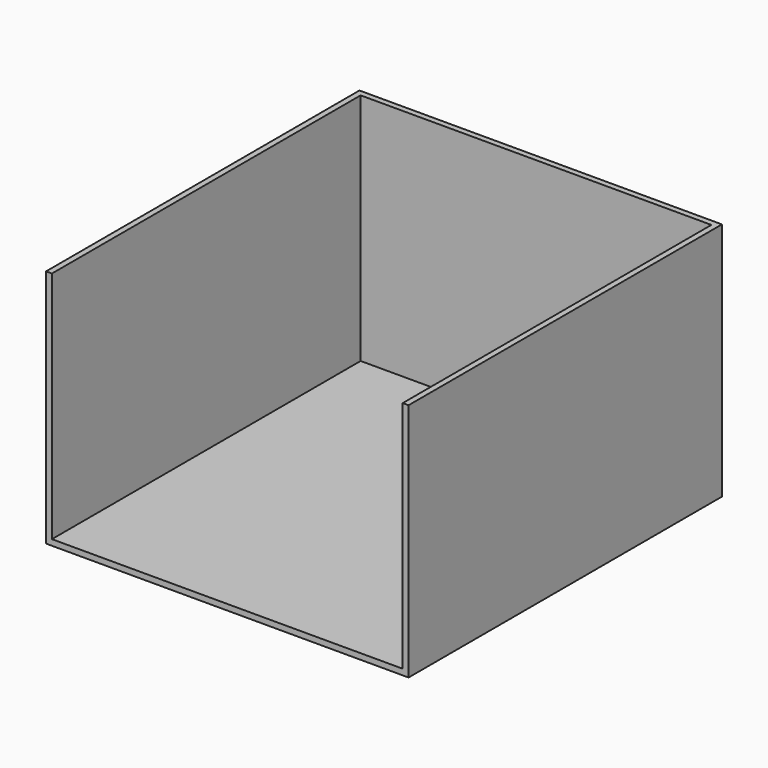
from build123d import *

# Parameters (mm, degrees)
F0_W     = 3048
F0_H     = 3352.8
F1_DEPTH = 50.8
F2_W     = 50.8
F2_H     = 3352.8
F3_DEPTH = 2082.8


with BuildPart() as f1:
    # F0 (on Top) → F1 (new body)
    with BuildSketch(Plane.XY):
        with Locations((1524, 1676.4)):
            Rectangle(F0_W, F0_H)
    extrude(amount=F1_DEPTH)

    # F2 (on face) → F3 (join, through all)
    with BuildSketch(Plane(origin=(0, 0, 0), x_dir=(1, 0, 0), z_dir=(0, 0, -1))):
        with Locations((-25.4, -1676.4)):
            Rectangle(F2_W, F2_H)
        Polygon((3048, -3352.8), (0, -3352.8), (-50.8, -3352.8), (-50.8, -3403.6), (3098.8, -3403.6), (3098.8, -3352.8), align=None)
        with Locations((3073.4, -1676.4)):
            Rectangle(F2_W, F2_H)
    extrude(amount=-F3_DEPTH)


solid = f1.part
